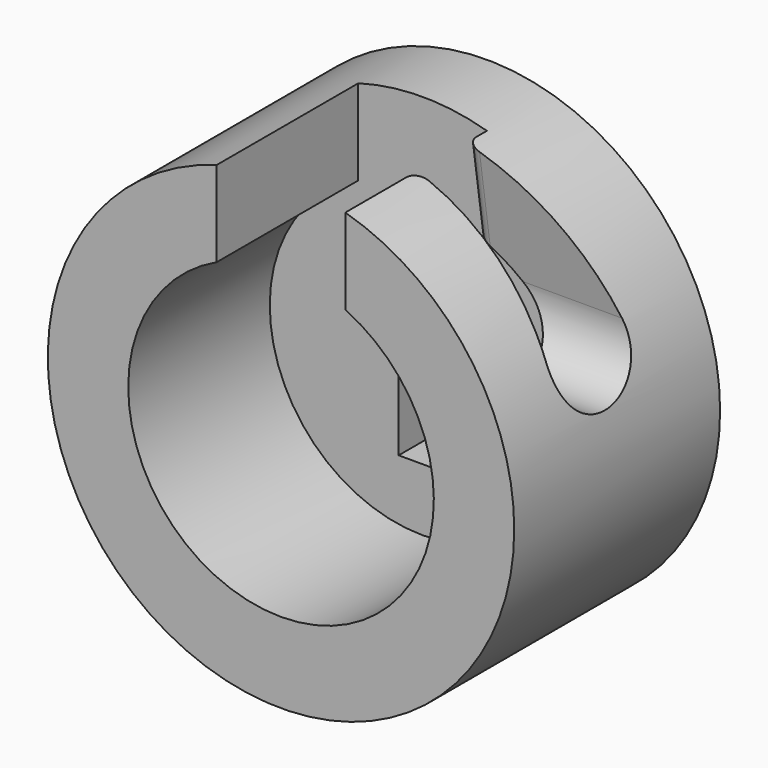
from build123d import *

# Parameters (mm, degrees)
F0_R     = 7.25
F1_DEPTH = 8
F2_R     = 4.75
F3_DEPTH = 5.5
F4_W     = 4
F4_H     = 9.4417827204
F5_DEPTH = 5.5
F7_DEPTH = 7.251
F8_W     = 1.5
F8_H     = 6.0454548055
F9_DEPTH = 25
F10_R    = 0.4


with BuildPart() as f1:
    # F0 (on Front) → F1 (new body)
    with BuildSketch(Plane.XZ):
        Circle(F0_R)
    extrude(amount=F1_DEPTH)

    # F2 (on face) → F3 (cut)
    with BuildSketch(Plane.XZ.offset(8)):
        Circle(F2_R)
    extrude(amount=-F3_DEPTH, mode=Mode.SUBTRACT)

    # F4 (on face) → F5 (cut, through all)
    with BuildSketch(Plane.XZ.offset(8)):
        with BuildLine():
            Line((-2, 9.4417827204), (-2, 6.9686799324))
            ThreePointArc((-2, 6.9686799324), (0, 7.25), (2, 6.9686799324))
            Line((2, 6.9686799324), (2, 9.4417827204))
            Line((2, 9.4417827204), (-2, 9.4417827204))
        make_face()
        with Locations((0, 4.7208913602)):
            Rectangle(F4_W, F4_H)
    extrude(amount=-F5_DEPTH, mode=Mode.SUBTRACT)

    # F6 (on Right) → F7 (cut, through all)
    with BuildSketch(Plane.YZ):
        with BuildLine():
            Line((-5.0896294415, 7.9721454531), (-5.7264296338, 3.302275436))
            ThreePointArc((-5.7264296338, 3.302275436), (-4.1996874086, 1.6687326956), (-2.7646700478, 3.3834130977))
            Line((-2.7646700478, 3.3834130977), (-3.4622503445, 8.0075236037))
            Line((-3.4622503445, 8.0075236037), (-5.0896294415, 7.9721454531))
        make_face()
    extrude(amount=F7_DEPTH, mode=Mode.SUBTRACT)

    # F8 (on face) → F9 (cut)
    with BuildSketch(Plane.XZ):
        with Locations((0.0068399386, 0.2177511924)):
            Rectangle(F8_W, F8_H)
    extrude(amount=F9_DEPTH, mode=Mode.SUBTRACT)

    # F10
    f10_edges = [f1.edges().sort_by_distance(p)[0] for p in [
        (2, -3.104874, 5.638551),
        (2, -5.407847, 5.638551),
    ]]
    fillet(f10_edges, radius=F10_R)


solid = f1.part
